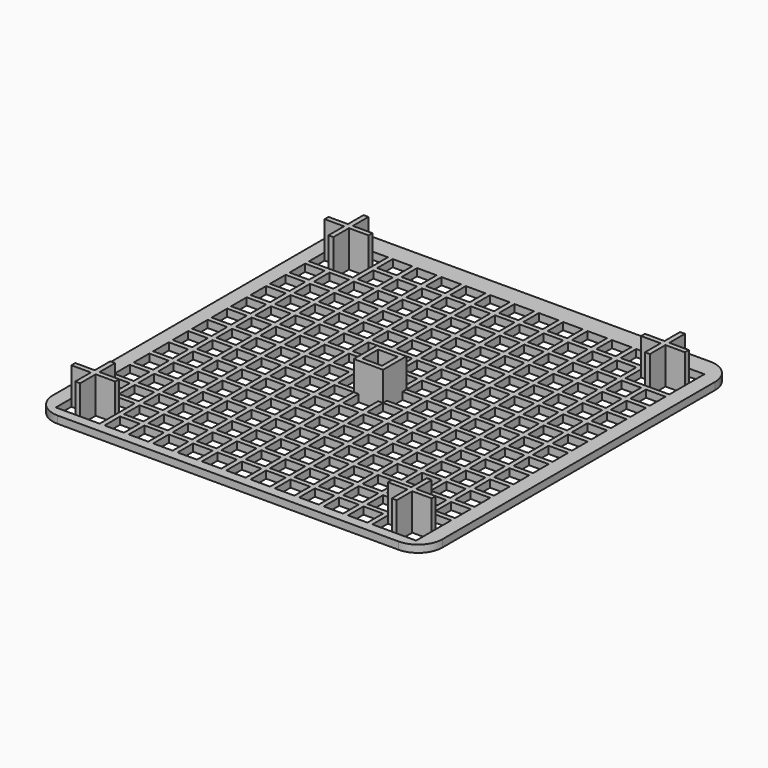
from build123d import *

# Parameters (mm, degrees)
F0_W     = 80
F0_H     = 80
F0_W_2   = 4
F0_H_2   = 4
F1_DEPTH = 1.5
F2_R     = 5
F3_W     = 4
F3_H     = 4
F4_DEPTH = 6


with BuildPart() as f1:
    # F0 (on Top) → F1 (new body)
    with BuildSketch(Plane.XY):
        Rectangle(F0_W, F0_H)
        with Locations((-35, -36)):
            Rectangle(F0_W_2, F0_H_2, mode=Mode.SUBTRACT)
        with Locations((-35, -31)):
            Rectangle(F0_W_2, F0_H_2, mode=Mode.SUBTRACT)
        with Locations((-30, -36)):
            Rectangle(F0_W_2, F0_H_2, mode=Mode.SUBTRACT)
        with Locations((-25, -36)):
            Rectangle(F0_W_2, F0_H_2, mode=Mode.SUBTRACT)
        with Locations((-30, -31)):
            Rectangle(F0_W_2, F0_H_2, mode=Mode.SUBTRACT)
        with Locations((-25, -31)):
            Rectangle(F0_W_2, F0_H_2, mode=Mode.SUBTRACT)
        with Locations((-35, -26)):
            Rectangle(F0_W_2, F0_H_2, mode=Mode.SUBTRACT)
        with Locations((-35, -21)):
            Rectangle(F0_W_2, F0_H_2, mode=Mode.SUBTRACT)
        with Locations((-30, -26)):
            Rectangle(F0_W_2, F0_H_2, mode=Mode.SUBTRACT)
        with Locations((-25, -26)):
            Rectangle(F0_W_2, F0_H_2, mode=Mode.SUBTRACT)
        with Locations((-30, -21)):
            Rectangle(F0_W_2, F0_H_2, mode=Mode.SUBTRACT)
        with Locations((-25, -21)):
            Rectangle(F0_W_2, F0_H_2, mode=Mode.SUBTRACT)
        with Locations((-20, -36)):
            Rectangle(F0_W_2, F0_H_2, mode=Mode.SUBTRACT)
        with Locations((-15, -36)):
            Rectangle(F0_W_2, F0_H_2, mode=Mode.SUBTRACT)
        with Locations((-20, -31)):
            Rectangle(F0_W_2, F0_H_2, mode=Mode.SUBTRACT)
        with Locations((-15, -31)):
            Rectangle(F0_W_2, F0_H_2, mode=Mode.SUBTRACT)
        with Locations((-10, -36)):
            Rectangle(F0_W_2, F0_H_2, mode=Mode.SUBTRACT)
        with Locations((-5, -36)):
            Rectangle(F0_W_2, F0_H_2, mode=Mode.SUBTRACT)
        with Locations((-10, -31)):
            Rectangle(F0_W_2, F0_H_2, mode=Mode.SUBTRACT)
        with Locations((-5, -31)):
            Rectangle(F0_W_2, F0_H_2, mode=Mode.SUBTRACT)
        with Locations((-20, -26)):
            Rectangle(F0_W_2, F0_H_2, mode=Mode.SUBTRACT)
        with Locations((-15, -26)):
            Rectangle(F0_W_2, F0_H_2, mode=Mode.SUBTRACT)
        with Locations((-20, -21)):
            Rectangle(F0_W_2, F0_H_2, mode=Mode.SUBTRACT)
        with Locations((-15, -21)):
            Rectangle(F0_W_2, F0_H_2, mode=Mode.SUBTRACT)
        with Locations((-10, -26)):
            Rectangle(F0_W_2, F0_H_2, mode=Mode.SUBTRACT)
        with Locations((-5, -26)):
            Rectangle(F0_W_2, F0_H_2, mode=Mode.SUBTRACT)
        with Locations((-10, -21)):
            Rectangle(F0_W_2, F0_H_2, mode=Mode.SUBTRACT)
        with Locations((-5, -21)):
            Rectangle(F0_W_2, F0_H_2, mode=Mode.SUBTRACT)
        with Locations((-35, -16)):
            Rectangle(F0_W_2, F0_H_2, mode=Mode.SUBTRACT)
        with Locations((-35, -11)):
            Rectangle(F0_W_2, F0_H_2, mode=Mode.SUBTRACT)
        with Locations((-30, -16)):
            Rectangle(F0_W_2, F0_H_2, mode=Mode.SUBTRACT)
        with Locations((-25, -16)):
            Rectangle(F0_W_2, F0_H_2, mode=Mode.SUBTRACT)
        with Locations((-30, -11)):
            Rectangle(F0_W_2, F0_H_2, mode=Mode.SUBTRACT)
        with Locations((-25, -11)):
            Rectangle(F0_W_2, F0_H_2, mode=Mode.SUBTRACT)
        with Locations((-35, -6)):
            Rectangle(F0_W_2, F0_H_2, mode=Mode.SUBTRACT)
        with Locations((-35, -1)):
            Rectangle(F0_W_2, F0_H_2, mode=Mode.SUBTRACT)
        with Locations((-30, -6)):
            Rectangle(F0_W_2, F0_H_2, mode=Mode.SUBTRACT)
        with Locations((-25, -6)):
            Rectangle(F0_W_2, F0_H_2, mode=Mode.SUBTRACT)
        with Locations((-30, -1)):
            Rectangle(F0_W_2, F0_H_2, mode=Mode.SUBTRACT)
        with Locations((-25, -1)):
            Rectangle(F0_W_2, F0_H_2, mode=Mode.SUBTRACT)
        with Locations((-20, -16)):
            Rectangle(F0_W_2, F0_H_2, mode=Mode.SUBTRACT)
        with Locations((-15, -16)):
            Rectangle(F0_W_2, F0_H_2, mode=Mode.SUBTRACT)
        with Locations((-20, -11)):
            Rectangle(F0_W_2, F0_H_2, mode=Mode.SUBTRACT)
        with Locations((-15, -11)):
            Rectangle(F0_W_2, F0_H_2, mode=Mode.SUBTRACT)
        with Locations((-10, -16)):
            Rectangle(F0_W_2, F0_H_2, mode=Mode.SUBTRACT)
        with Locations((-5, -16)):
            Rectangle(F0_W_2, F0_H_2, mode=Mode.SUBTRACT)
        with Locations((-10, -11)):
            Rectangle(F0_W_2, F0_H_2, mode=Mode.SUBTRACT)
        with Locations((-5, -11)):
            Rectangle(F0_W_2, F0_H_2, mode=Mode.SUBTRACT)
        with Locations((-20, -6)):
            Rectangle(F0_W_2, F0_H_2, mode=Mode.SUBTRACT)
        with Locations((-15, -6)):
            Rectangle(F0_W_2, F0_H_2, mode=Mode.SUBTRACT)
        with Locations((-20, -1)):
            Rectangle(F0_W_2, F0_H_2, mode=Mode.SUBTRACT)
        with Locations((-15, -1)):
            Rectangle(F0_W_2, F0_H_2, mode=Mode.SUBTRACT)
        with Locations((-10, -6)):
            Rectangle(F0_W_2, F0_H_2, mode=Mode.SUBTRACT)
        with Locations((-5, -6)):
            Rectangle(F0_W_2, F0_H_2, mode=Mode.SUBTRACT)
        with Locations((-10, -1)):
            Rectangle(F0_W_2, F0_H_2, mode=Mode.SUBTRACT)
        with Locations((-5, -1)):
            Rectangle(F0_W_2, F0_H_2, mode=Mode.SUBTRACT)
        with Locations((0, -36)):
            Rectangle(F0_W_2, F0_H_2, mode=Mode.SUBTRACT)
        with Locations((5, -36)):
            Rectangle(F0_W_2, F0_H_2, mode=Mode.SUBTRACT)
        with Locations((0, -31)):
            Rectangle(F0_W_2, F0_H_2, mode=Mode.SUBTRACT)
        with Locations((5, -31)):
            Rectangle(F0_W_2, F0_H_2, mode=Mode.SUBTRACT)
        with Locations((10, -36)):
            Rectangle(F0_W_2, F0_H_2, mode=Mode.SUBTRACT)
        with Locations((15, -36)):
            Rectangle(F0_W_2, F0_H_2, mode=Mode.SUBTRACT)
        with Locations((10, -31)):
            Rectangle(F0_W_2, F0_H_2, mode=Mode.SUBTRACT)
        with Locations((15, -31)):
            Rectangle(F0_W_2, F0_H_2, mode=Mode.SUBTRACT)
        with Locations((0, -26)):
            Rectangle(F0_W_2, F0_H_2, mode=Mode.SUBTRACT)
        with Locations((5, -26)):
            Rectangle(F0_W_2, F0_H_2, mode=Mode.SUBTRACT)
        with Locations((0, -21)):
            Rectangle(F0_W_2, F0_H_2, mode=Mode.SUBTRACT)
        with Locations((5, -21)):
            Rectangle(F0_W_2, F0_H_2, mode=Mode.SUBTRACT)
        with Locations((10, -26)):
            Rectangle(F0_W_2, F0_H_2, mode=Mode.SUBTRACT)
        with Locations((15, -26)):
            Rectangle(F0_W_2, F0_H_2, mode=Mode.SUBTRACT)
        with Locations((10, -21)):
            Rectangle(F0_W_2, F0_H_2, mode=Mode.SUBTRACT)
        with Locations((15, -21)):
            Rectangle(F0_W_2, F0_H_2, mode=Mode.SUBTRACT)
        with Locations((20, -36)):
            Rectangle(F0_W_2, F0_H_2, mode=Mode.SUBTRACT)
        with Locations((25, -36)):
            Rectangle(F0_W_2, F0_H_2, mode=Mode.SUBTRACT)
        with Locations((20, -31)):
            Rectangle(F0_W_2, F0_H_2, mode=Mode.SUBTRACT)
        with Locations((25, -31)):
            Rectangle(F0_W_2, F0_H_2, mode=Mode.SUBTRACT)
        with Locations((30, -36)):
            Rectangle(F0_W_2, F0_H_2, mode=Mode.SUBTRACT)
        with Locations((35, -36)):
            Rectangle(F0_W_2, F0_H_2, mode=Mode.SUBTRACT)
        with Locations((30, -31)):
            Rectangle(F0_W_2, F0_H_2, mode=Mode.SUBTRACT)
        with Locations((35, -31)):
            Rectangle(F0_W_2, F0_H_2, mode=Mode.SUBTRACT)
        with Locations((20, -26)):
            Rectangle(F0_W_2, F0_H_2, mode=Mode.SUBTRACT)
        with Locations((25, -26)):
            Rectangle(F0_W_2, F0_H_2, mode=Mode.SUBTRACT)
        with Locations((20, -21)):
            Rectangle(F0_W_2, F0_H_2, mode=Mode.SUBTRACT)
        with Locations((25, -21)):
            Rectangle(F0_W_2, F0_H_2, mode=Mode.SUBTRACT)
        with Locations((30, -26)):
            Rectangle(F0_W_2, F0_H_2, mode=Mode.SUBTRACT)
        with Locations((35, -26)):
            Rectangle(F0_W_2, F0_H_2, mode=Mode.SUBTRACT)
        with Locations((30, -21)):
            Rectangle(F0_W_2, F0_H_2, mode=Mode.SUBTRACT)
        with Locations((35, -21)):
            Rectangle(F0_W_2, F0_H_2, mode=Mode.SUBTRACT)
        with Locations((0, -16)):
            Rectangle(F0_W_2, F0_H_2, mode=Mode.SUBTRACT)
        with Locations((5, -16)):
            Rectangle(F0_W_2, F0_H_2, mode=Mode.SUBTRACT)
        with Locations((0, -11)):
            Rectangle(F0_W_2, F0_H_2, mode=Mode.SUBTRACT)
        with Locations((5, -11)):
            Rectangle(F0_W_2, F0_H_2, mode=Mode.SUBTRACT)
        with Locations((10, -16)):
            Rectangle(F0_W_2, F0_H_2, mode=Mode.SUBTRACT)
        with Locations((15, -16)):
            Rectangle(F0_W_2, F0_H_2, mode=Mode.SUBTRACT)
        with Locations((10, -11)):
            Rectangle(F0_W_2, F0_H_2, mode=Mode.SUBTRACT)
        with Locations((15, -11)):
            Rectangle(F0_W_2, F0_H_2, mode=Mode.SUBTRACT)
        with Locations((0, -6)):
            Rectangle(F0_W_2, F0_H_2, mode=Mode.SUBTRACT)
        with Locations((5, -6)):
            Rectangle(F0_W_2, F0_H_2, mode=Mode.SUBTRACT)
        with Locations((0, -1)):
            Rectangle(F0_W_2, F0_H_2, mode=Mode.SUBTRACT)
        with Locations((5, -1)):
            Rectangle(F0_W_2, F0_H_2, mode=Mode.SUBTRACT)
        with Locations((10, -6)):
            Rectangle(F0_W_2, F0_H_2, mode=Mode.SUBTRACT)
        with Locations((15, -6)):
            Rectangle(F0_W_2, F0_H_2, mode=Mode.SUBTRACT)
        with Locations((10, -1)):
            Rectangle(F0_W_2, F0_H_2, mode=Mode.SUBTRACT)
        with Locations((15, -1)):
            Rectangle(F0_W_2, F0_H_2, mode=Mode.SUBTRACT)
        with Locations((20, -16)):
            Rectangle(F0_W_2, F0_H_2, mode=Mode.SUBTRACT)
        with Locations((25, -16)):
            Rectangle(F0_W_2, F0_H_2, mode=Mode.SUBTRACT)
        with Locations((20, -11)):
            Rectangle(F0_W_2, F0_H_2, mode=Mode.SUBTRACT)
        with Locations((25, -11)):
            Rectangle(F0_W_2, F0_H_2, mode=Mode.SUBTRACT)
        with Locations((30, -16)):
            Rectangle(F0_W_2, F0_H_2, mode=Mode.SUBTRACT)
        with Locations((35, -16)):
            Rectangle(F0_W_2, F0_H_2, mode=Mode.SUBTRACT)
        with Locations((30, -11)):
            Rectangle(F0_W_2, F0_H_2, mode=Mode.SUBTRACT)
        with Locations((35, -11)):
            Rectangle(F0_W_2, F0_H_2, mode=Mode.SUBTRACT)
        with Locations((20, -6)):
            Rectangle(F0_W_2, F0_H_2, mode=Mode.SUBTRACT)
        with Locations((25, -6)):
            Rectangle(F0_W_2, F0_H_2, mode=Mode.SUBTRACT)
        with Locations((20, -1)):
            Rectangle(F0_W_2, F0_H_2, mode=Mode.SUBTRACT)
        with Locations((25, -1)):
            Rectangle(F0_W_2, F0_H_2, mode=Mode.SUBTRACT)
        with Locations((30, -6)):
            Rectangle(F0_W_2, F0_H_2, mode=Mode.SUBTRACT)
        with Locations((35, -6)):
            Rectangle(F0_W_2, F0_H_2, mode=Mode.SUBTRACT)
        with Locations((30, -1)):
            Rectangle(F0_W_2, F0_H_2, mode=Mode.SUBTRACT)
        with Locations((35, -1)):
            Rectangle(F0_W_2, F0_H_2, mode=Mode.SUBTRACT)
        with Locations((-35, 4)):
            Rectangle(F0_W_2, F0_H_2, mode=Mode.SUBTRACT)
        with Locations((-35, 9)):
            Rectangle(F0_W_2, F0_H_2, mode=Mode.SUBTRACT)
        with Locations((-30, 4)):
            Rectangle(F0_W_2, F0_H_2, mode=Mode.SUBTRACT)
        with Locations((-25, 4)):
            Rectangle(F0_W_2, F0_H_2, mode=Mode.SUBTRACT)
        with Locations((-30, 9)):
            Rectangle(F0_W_2, F0_H_2, mode=Mode.SUBTRACT)
        with Locations((-25, 9)):
            Rectangle(F0_W_2, F0_H_2, mode=Mode.SUBTRACT)
        with Locations((-35, 14)):
            Rectangle(F0_W_2, F0_H_2, mode=Mode.SUBTRACT)
        with Locations((-35, 19)):
            Rectangle(F0_W_2, F0_H_2, mode=Mode.SUBTRACT)
        with Locations((-30, 14)):
            Rectangle(F0_W_2, F0_H_2, mode=Mode.SUBTRACT)
        with Locations((-25, 14)):
            Rectangle(F0_W_2, F0_H_2, mode=Mode.SUBTRACT)
        with Locations((-30, 19)):
            Rectangle(F0_W_2, F0_H_2, mode=Mode.SUBTRACT)
        with Locations((-25, 19)):
            Rectangle(F0_W_2, F0_H_2, mode=Mode.SUBTRACT)
        with Locations((-20, 4)):
            Rectangle(F0_W_2, F0_H_2, mode=Mode.SUBTRACT)
        with Locations((-15, 4)):
            Rectangle(F0_W_2, F0_H_2, mode=Mode.SUBTRACT)
        with Locations((-20, 9)):
            Rectangle(F0_W_2, F0_H_2, mode=Mode.SUBTRACT)
        with Locations((-15, 9)):
            Rectangle(F0_W_2, F0_H_2, mode=Mode.SUBTRACT)
        with Locations((-10, 4)):
            Rectangle(F0_W_2, F0_H_2, mode=Mode.SUBTRACT)
        with Locations((-5, 4)):
            Rectangle(F0_W_2, F0_H_2, mode=Mode.SUBTRACT)
        with Locations((-10, 9)):
            Rectangle(F0_W_2, F0_H_2, mode=Mode.SUBTRACT)
        with Locations((-5, 9)):
            Rectangle(F0_W_2, F0_H_2, mode=Mode.SUBTRACT)
        with Locations((-20, 14)):
            Rectangle(F0_W_2, F0_H_2, mode=Mode.SUBTRACT)
        with Locations((-15, 14)):
            Rectangle(F0_W_2, F0_H_2, mode=Mode.SUBTRACT)
        with Locations((-20, 19)):
            Rectangle(F0_W_2, F0_H_2, mode=Mode.SUBTRACT)
        with Locations((-15, 19)):
            Rectangle(F0_W_2, F0_H_2, mode=Mode.SUBTRACT)
        with Locations((-10, 14)):
            Rectangle(F0_W_2, F0_H_2, mode=Mode.SUBTRACT)
        with Locations((-5, 14)):
            Rectangle(F0_W_2, F0_H_2, mode=Mode.SUBTRACT)
        with Locations((-10, 19)):
            Rectangle(F0_W_2, F0_H_2, mode=Mode.SUBTRACT)
        with Locations((-5, 19)):
            Rectangle(F0_W_2, F0_H_2, mode=Mode.SUBTRACT)
        with Locations((-35, 24)):
            Rectangle(F0_W_2, F0_H_2, mode=Mode.SUBTRACT)
        with Locations((-35, 29)):
            Rectangle(F0_W_2, F0_H_2, mode=Mode.SUBTRACT)
        with Locations((-30, 24)):
            Rectangle(F0_W_2, F0_H_2, mode=Mode.SUBTRACT)
        with Locations((-25, 24)):
            Rectangle(F0_W_2, F0_H_2, mode=Mode.SUBTRACT)
        with Locations((-30, 29)):
            Rectangle(F0_W_2, F0_H_2, mode=Mode.SUBTRACT)
        with Locations((-25, 29)):
            Rectangle(F0_W_2, F0_H_2, mode=Mode.SUBTRACT)
        with Locations((-35, 34)):
            Rectangle(F0_W_2, F0_H_2, mode=Mode.SUBTRACT)
        with Locations((-30, 34)):
            Rectangle(F0_W_2, F0_H_2, mode=Mode.SUBTRACT)
        with Locations((-25, 34)):
            Rectangle(F0_W_2, F0_H_2, mode=Mode.SUBTRACT)
        with Locations((-20, 24)):
            Rectangle(F0_W_2, F0_H_2, mode=Mode.SUBTRACT)
        with Locations((-15, 24)):
            Rectangle(F0_W_2, F0_H_2, mode=Mode.SUBTRACT)
        with Locations((-20, 29)):
            Rectangle(F0_W_2, F0_H_2, mode=Mode.SUBTRACT)
        with Locations((-15, 29)):
            Rectangle(F0_W_2, F0_H_2, mode=Mode.SUBTRACT)
        with Locations((-10, 24)):
            Rectangle(F0_W_2, F0_H_2, mode=Mode.SUBTRACT)
        with Locations((-5, 24)):
            Rectangle(F0_W_2, F0_H_2, mode=Mode.SUBTRACT)
        with Locations((-10, 29)):
            Rectangle(F0_W_2, F0_H_2, mode=Mode.SUBTRACT)
        with Locations((-5, 29)):
            Rectangle(F0_W_2, F0_H_2, mode=Mode.SUBTRACT)
        with Locations((-20, 34)):
            Rectangle(F0_W_2, F0_H_2, mode=Mode.SUBTRACT)
        with Locations((-15, 34)):
            Rectangle(F0_W_2, F0_H_2, mode=Mode.SUBTRACT)
        with Locations((-10, 34)):
            Rectangle(F0_W_2, F0_H_2, mode=Mode.SUBTRACT)
        with Locations((-5, 34)):
            Rectangle(F0_W_2, F0_H_2, mode=Mode.SUBTRACT)
        with Locations((0, 4)):
            Rectangle(F0_W_2, F0_H_2, mode=Mode.SUBTRACT)
        with Locations((5, 4)):
            Rectangle(F0_W_2, F0_H_2, mode=Mode.SUBTRACT)
        with Locations((0, 9)):
            Rectangle(F0_W_2, F0_H_2, mode=Mode.SUBTRACT)
        with Locations((5, 9)):
            Rectangle(F0_W_2, F0_H_2, mode=Mode.SUBTRACT)
        with Locations((10, 4)):
            Rectangle(F0_W_2, F0_H_2, mode=Mode.SUBTRACT)
        with Locations((15, 4)):
            Rectangle(F0_W_2, F0_H_2, mode=Mode.SUBTRACT)
        with Locations((10, 9)):
            Rectangle(F0_W_2, F0_H_2, mode=Mode.SUBTRACT)
        with Locations((15, 9)):
            Rectangle(F0_W_2, F0_H_2, mode=Mode.SUBTRACT)
        with Locations((0, 14)):
            Rectangle(F0_W_2, F0_H_2, mode=Mode.SUBTRACT)
        with Locations((5, 14)):
            Rectangle(F0_W_2, F0_H_2, mode=Mode.SUBTRACT)
        with Locations((0, 19)):
            Rectangle(F0_W_2, F0_H_2, mode=Mode.SUBTRACT)
        with Locations((5, 19)):
            Rectangle(F0_W_2, F0_H_2, mode=Mode.SUBTRACT)
        with Locations((10, 14)):
            Rectangle(F0_W_2, F0_H_2, mode=Mode.SUBTRACT)
        with Locations((15, 14)):
            Rectangle(F0_W_2, F0_H_2, mode=Mode.SUBTRACT)
        with Locations((10, 19)):
            Rectangle(F0_W_2, F0_H_2, mode=Mode.SUBTRACT)
        with Locations((15, 19)):
            Rectangle(F0_W_2, F0_H_2, mode=Mode.SUBTRACT)
        with Locations((20, 4)):
            Rectangle(F0_W_2, F0_H_2, mode=Mode.SUBTRACT)
        with Locations((25, 4)):
            Rectangle(F0_W_2, F0_H_2, mode=Mode.SUBTRACT)
        with Locations((20, 9)):
            Rectangle(F0_W_2, F0_H_2, mode=Mode.SUBTRACT)
        with Locations((25, 9)):
            Rectangle(F0_W_2, F0_H_2, mode=Mode.SUBTRACT)
        with Locations((30, 4)):
            Rectangle(F0_W_2, F0_H_2, mode=Mode.SUBTRACT)
        with Locations((35, 4)):
            Rectangle(F0_W_2, F0_H_2, mode=Mode.SUBTRACT)
        with Locations((30, 9)):
            Rectangle(F0_W_2, F0_H_2, mode=Mode.SUBTRACT)
        with Locations((35, 9)):
            Rectangle(F0_W_2, F0_H_2, mode=Mode.SUBTRACT)
        with Locations((20, 14)):
            Rectangle(F0_W_2, F0_H_2, mode=Mode.SUBTRACT)
        with Locations((25, 14)):
            Rectangle(F0_W_2, F0_H_2, mode=Mode.SUBTRACT)
        with Locations((20, 19)):
            Rectangle(F0_W_2, F0_H_2, mode=Mode.SUBTRACT)
        with Locations((25, 19)):
            Rectangle(F0_W_2, F0_H_2, mode=Mode.SUBTRACT)
        with Locations((30, 14)):
            Rectangle(F0_W_2, F0_H_2, mode=Mode.SUBTRACT)
        with Locations((35, 14)):
            Rectangle(F0_W_2, F0_H_2, mode=Mode.SUBTRACT)
        with Locations((30, 19)):
            Rectangle(F0_W_2, F0_H_2, mode=Mode.SUBTRACT)
        with Locations((35, 19)):
            Rectangle(F0_W_2, F0_H_2, mode=Mode.SUBTRACT)
        with Locations((0, 24)):
            Rectangle(F0_W_2, F0_H_2, mode=Mode.SUBTRACT)
        with Locations((5, 24)):
            Rectangle(F0_W_2, F0_H_2, mode=Mode.SUBTRACT)
        with Locations((0, 29)):
            Rectangle(F0_W_2, F0_H_2, mode=Mode.SUBTRACT)
        with Locations((5, 29)):
            Rectangle(F0_W_2, F0_H_2, mode=Mode.SUBTRACT)
        with Locations((10, 24)):
            Rectangle(F0_W_2, F0_H_2, mode=Mode.SUBTRACT)
        with Locations((15, 24)):
            Rectangle(F0_W_2, F0_H_2, mode=Mode.SUBTRACT)
        with Locations((10, 29)):
            Rectangle(F0_W_2, F0_H_2, mode=Mode.SUBTRACT)
        with Locations((15, 29)):
            Rectangle(F0_W_2, F0_H_2, mode=Mode.SUBTRACT)
        with Locations((0, 34)):
            Rectangle(F0_W_2, F0_H_2, mode=Mode.SUBTRACT)
        with Locations((5, 34)):
            Rectangle(F0_W_2, F0_H_2, mode=Mode.SUBTRACT)
        with Locations((10, 34)):
            Rectangle(F0_W_2, F0_H_2, mode=Mode.SUBTRACT)
        with Locations((15, 34)):
            Rectangle(F0_W_2, F0_H_2, mode=Mode.SUBTRACT)
        with Locations((20, 24)):
            Rectangle(F0_W_2, F0_H_2, mode=Mode.SUBTRACT)
        with Locations((25, 24)):
            Rectangle(F0_W_2, F0_H_2, mode=Mode.SUBTRACT)
        with Locations((20, 29)):
            Rectangle(F0_W_2, F0_H_2, mode=Mode.SUBTRACT)
        with Locations((25, 29)):
            Rectangle(F0_W_2, F0_H_2, mode=Mode.SUBTRACT)
        with Locations((30, 24)):
            Rectangle(F0_W_2, F0_H_2, mode=Mode.SUBTRACT)
        with Locations((35, 24)):
            Rectangle(F0_W_2, F0_H_2, mode=Mode.SUBTRACT)
        with Locations((30, 29)):
            Rectangle(F0_W_2, F0_H_2, mode=Mode.SUBTRACT)
        with Locations((35, 29)):
            Rectangle(F0_W_2, F0_H_2, mode=Mode.SUBTRACT)
        with Locations((20, 34)):
            Rectangle(F0_W_2, F0_H_2, mode=Mode.SUBTRACT)
        with Locations((25, 34)):
            Rectangle(F0_W_2, F0_H_2, mode=Mode.SUBTRACT)
        with Locations((30, 34)):
            Rectangle(F0_W_2, F0_H_2, mode=Mode.SUBTRACT)
        with Locations((35, 34)):
            Rectangle(F0_W_2, F0_H_2, mode=Mode.SUBTRACT)
    extrude(amount=F1_DEPTH)

    # F2
    f2_edges = [f1.edges().sort_by_distance(p)[0] for p in [
        (40, -40, 0.75),
        (40, 40, 0.75),
        (-40, 40, 0.75),
        (-40, -40, 0.75),
    ]]
    fillet(f2_edges, radius=F2_R)

    # F3 (on face) → F4 (join)
    with BuildSketch(Plane.XY.offset(1.5)):
        Polygon((28, -33), (28, -34), (32, -34), (32, -38), (33, -38), (33, -34), (37, -34), (37, -33), (33, -33), (33, -29), (32, -29), (32, -33), align=None)
        Polygon((-28, 31), (-28, 32), (-32, 32), (-32, 36), (-33, 36), (-33, 32), (-37, 32), (-37, 31), (-33, 31), (-33, 27), (-32, 27), (-32, 31), align=None)
        Polygon((33, 36), (32, 36), (32, 32), (28, 32), (28, 31), (32, 31), (32, 27), (33, 27), (33, 31), (37, 31), (37, 32), (33, 32), align=None)
        Polygon((-32, -29), (-33, -29), (-33, -33), (-37, -33), (-37, -34), (-33, -34), (-33, -38), (-32, -38), (-32, -34), (-28, -34), (-28, -33), (-32, -33), align=None)
        Polygon((-2, 2), (-3, 2), (-3, 1), (-3, -3), (-3, -4), (-2, -4), (2, -4), (3, -4), (3, -3), (3, 1), (3, 2), (2, 2), align=None)
        with Locations((0, -1)):
            Rectangle(F3_W, F3_H, mode=Mode.SUBTRACT)
    extrude(amount=F4_DEPTH)


solid = f1.part
